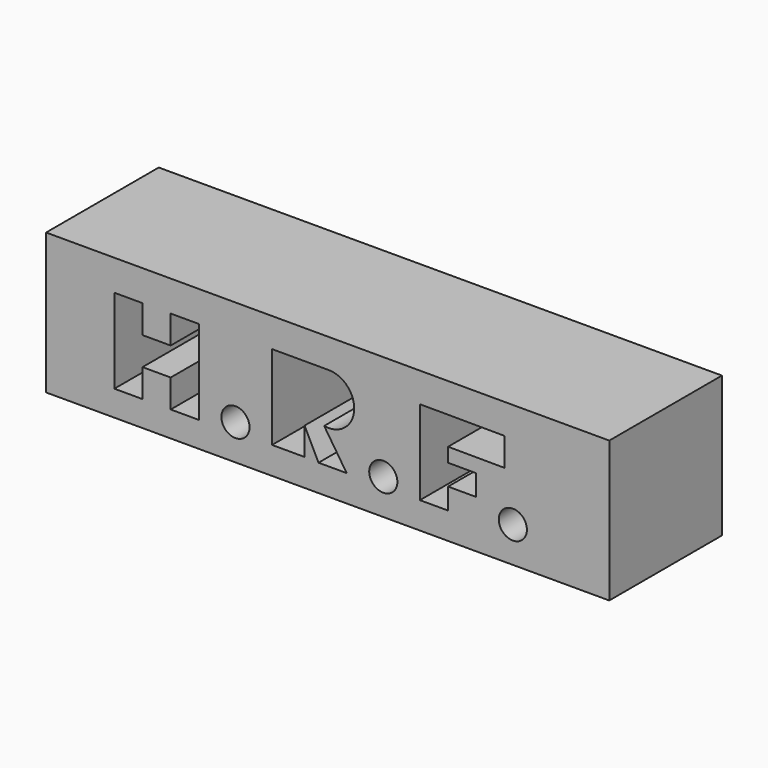
from build123d import *

# Parameters (mm, degrees)
F0_W     = 508
F0_H     = 127
F0_R     = 12.7
F1_DEPTH = 127


with BuildPart() as f1:
    # F0 (on Front) → F1 (new body)
    with BuildSketch(Plane.XZ):
        with Locations((-362.030605, 31.507092)):
            Rectangle(F0_W, F0_H)
        Polygon((-554.435605, 67.223251), (-529.035605, 67.223251), (-529.035605, 41.823251), (-503.635605, 41.823251), (-503.635605, 67.223251), (-478.235605, 67.223251), (-478.235605, -8.976749), (-503.635605, -8.976749), (-503.635605, 16.423251), (-529.035605, 16.423251), (-529.035605, -8.976749), (-554.435605, -8.976749), align=None, mode=Mode.SUBTRACT)
        with Locations((-445.215605, 0)):
            Circle(F0_R, mode=Mode.SUBTRACT)
        with BuildLine():
            Line((-412.195605, -7.393757), (-412.195605, 68.716164))
            Line((-412.195605, 68.716164), (-361.10922, 68.716164))
            ThreePointArc((-361.10922, 68.716164), (-338.166668, 43.629273), (-365.198272, 23.01362))
            Line((-365.198272, 23.01362), (-344.88481, -7.859427))
            Line((-344.88481, -7.859427), (-370.28481, -7.859427))
            Line((-370.28481, -7.859427), (-382.873771, 17.540573))
            Line((-382.873771, 17.540573), (-382.873771, -7.393757))
            Line((-382.873771, -7.393757), (-412.195605, -7.393757))
        make_face(mode=Mode.SUBTRACT)
        with Locations((-311.86481, 0)):
            Circle(F0_R, mode=Mode.SUBTRACT)
        Polygon((-253.44481, -7.859427), (-278.84481, -7.859427), (-278.84481, 68.340573), (-202.645605, 67.992452), (-202.645605, 42.592452), (-253.445075, 42.824533), (-253.445075, 30.082439), (-228.04481, 30.082439), (-228.04481, 11.190573), (-253.44481, 11.190573), align=None, mode=Mode.SUBTRACT)
        with Locations((-195.02481, 0)):
            Circle(F0_R, mode=Mode.SUBTRACT)
    extrude(amount=F1_DEPTH)


solid = f1.part
